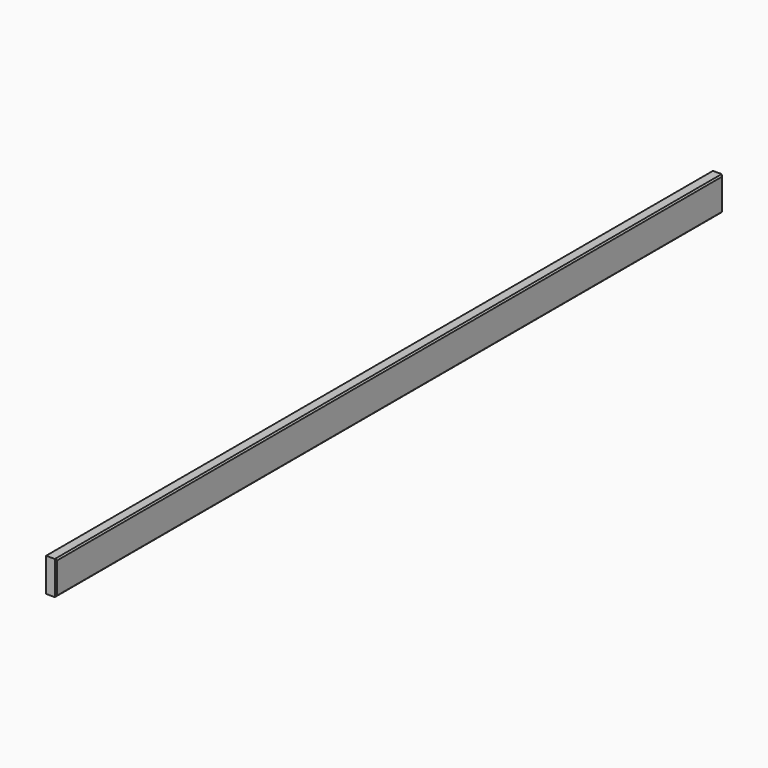
from build123d import *

# Parameters (mm, degrees)
F0_W     = 1574.8
F0_H     = 63.5
F1_DEPTH = 19.05
F2_SIZE  = 2.54


with BuildPart() as f1:
    # F0 (on Right) → F1 (new body)
    with BuildSketch(Plane.YZ):
        with Locations((-41.641524, -17.86528)):
            Rectangle(F0_W, F0_H)
    extrude(amount=F1_DEPTH)

    # F2
    f2_edges = [f1.edges().sort_by_distance(p)[0] for p in [
        (19.05, -41.641524, 13.88472),
        (19.05, -829.041524, -17.86528),
        (19.05, -41.641524, -49.61528),
        (19.05, 745.758476, -17.86528),
    ]]
    chamfer(f2_edges, length=F2_SIZE)


solid = f1.part
